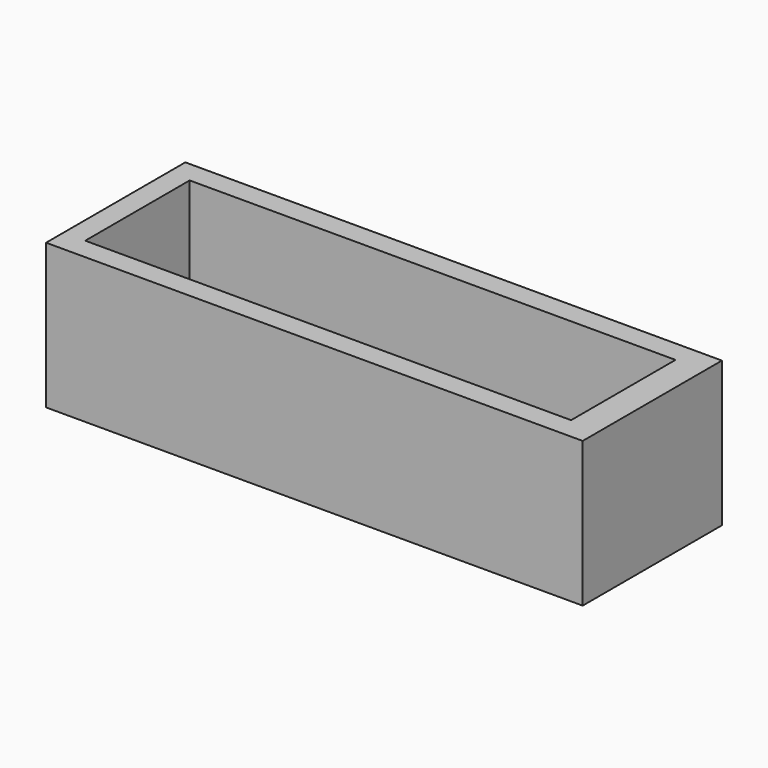
from build123d import *

# Parameters (mm, degrees)
SKETCH_W        = 74
SKETCH_H        = 24
PAD_DEPTH       = 20
SKETCH001_W     = 67
SKETCH001_H     = 18
POCKET_DEPTH    = 18
SKETCH002_R     = 0.75
POCKET001_DEPTH = 2
SKETCH003_W     = 3
SKETCH003_H     = 9
POCKET002_DEPTH = 0.4


with BuildPart() as part:
    # Sketch → Pad (new body)
    with BuildSketch(Plane.XY):
        with Locations((37, -12)):
            Rectangle(SKETCH_W, SKETCH_H)
    extrude(amount=PAD_DEPTH)

    # Sketch001 (on Face6 of Pad) → Pocket (cut)
    with BuildSketch(Plane.XY.offset(20)):
        with Locations((36.5, -12)):
            Rectangle(SKETCH001_W, SKETCH001_H)
    extrude(amount=-POCKET_DEPTH, mode=Mode.SUBTRACT)

    # Sketch002 (on Face11 of Pocket) → Pocket001 (cut)
    with BuildSketch(Plane.XY.offset(2)):
        with Locations((3.5, -11)):
            Circle(SKETCH002_R)
        with Locations((69.5, -11)):
            Circle(SKETCH002_R)
    extrude(amount=-POCKET001_DEPTH, mode=Mode.SUBTRACT)

    # Sketch003 (on Face14 of Pocket001) → Pocket002 (cut)
    with BuildSketch(Plane.XY.offset(2)):
        Polygon((9, -9.5), (9, -6.5), (12, -6.5), (12, -9.5), (15, -9.5), (15, -12.5), (12, -12.5), (12, -15.5), (9, -15.5), (9, -12.5), (6, -12.5), (6, -9.5), align=None)
        with Locations((65.5, -11)):
            Rectangle(SKETCH003_W, SKETCH003_H)
    extrude(amount=-POCKET002_DEPTH, mode=Mode.SUBTRACT)


solid = part.part
